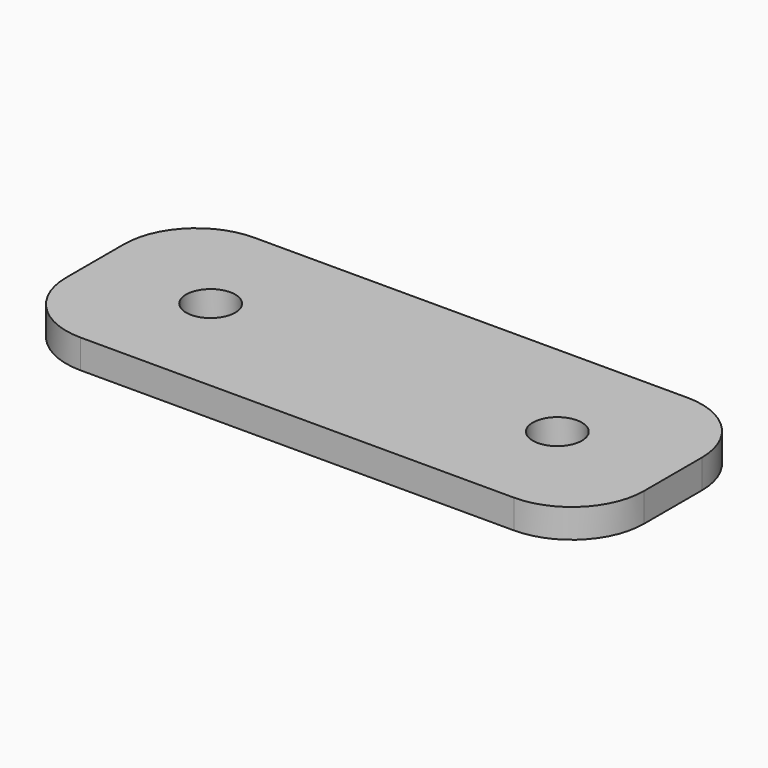
from build123d import *

# Parameters (mm, degrees)
CYLINDER001_R     = 1.7
CYLINDER001_DEPTH = 10
CYLINDER_R        = 1.7
CYLINDER_DEPTH    = 10
BOX003_W          = 40
BOX003_H          = 15
BOX003_DEPTH      = 2
FILLET003_R       = 5


with BuildPart() as cylinder001:
    # Cylinder001 → Cylinder001 (new body)
    with BuildSketch(Plane(origin=(32, 0, 0), x_dir=(1, 0, 0), z_dir=(0, 0, 1))):
        Circle(CYLINDER001_R)
    extrude(amount=CYLINDER001_DEPTH)


with BuildPart() as cylinder:
    # Cylinder → Cylinder (new body)
    with BuildSketch(Plane(origin=(8, 0, 0), x_dir=(1, 0, 0), z_dir=(0, 0, 1))):
        Circle(CYLINDER_R)
    extrude(amount=CYLINDER_DEPTH)


with BuildPart() as union:
    # Box003 → Box003 (new body)
    with BuildSketch(Plane.XY):
        with Locations((20, 7.5)):
            Rectangle(BOX003_W, BOX003_H)
    extrude(amount=BOX003_DEPTH)

    # Fillet003
    fillet003_edges = [union.edges().sort_by_distance(p)[0] for p in [
        (0, 0, 1),
        (0, 15, 1),
        (40, 0, 1),
        (40, 15, 1),
    ]]
    fillet(fillet003_edges, radius=FILLET003_R)


with BuildPart() as union_1:
    # Fillet003 placement: moved
    add(union.part.moved(Location((0, -7.5, 0))))

    # Cut002: cut Cylinder
    add(cylinder.part, mode=Mode.SUBTRACT)

    # Cut003: cut Cylinder001
    add(cylinder001.part, mode=Mode.SUBTRACT)


with BuildPart() as union_2:
    # Cut003 placement: moved
    add(union_1.part.moved(Location((0, -15, 0))))


solid = union_2.part
